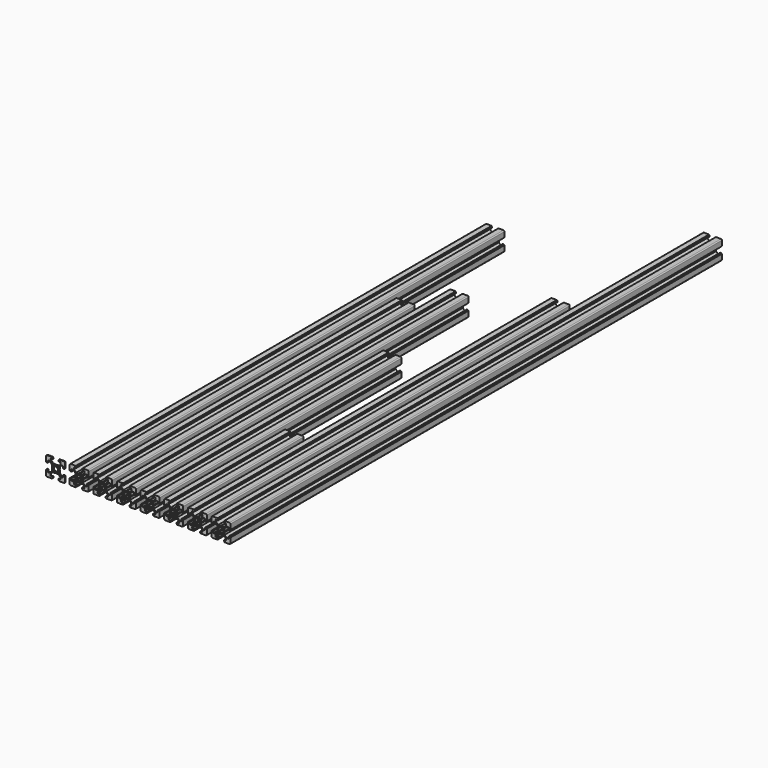
from build123d import *

# Parameters (mm, degrees)
F1_DEPTH  = 1
F3_DEPTH  = 549
F5_DEPTH  = 399
F9_DEPTH  = 439
F10_DEPTH = 319
F11_DEPTH = 158
F14_DEPTH = 479
F15_DEPTH = 649


with BuildPart() as f1:
    # F0 (on Front) → F1 (new body)
    with BuildSketch(Plane.XZ):
        with BuildLine():
            ThreePointArc((3.9878679656, -3.1393400344), (3.9228361402, -3.0420130297), (3.9, -2.927208))
            Line((3.9, -2.927208), (3.9, -0.5))
            Line((3.9, -0.5), (3.612132, -0.212132))
            ThreePointArc((3.6121319656, -0.2121320344), (3.524264, 0), (3.6121319656, 0.2121320344))
            Line((3.612132, 0.212132), (3.9, 0.5))
            Line((3.9, 0.5), (3.9, 2.927208))
            ThreePointArc((3.9, 2.927208), (3.9228361402, 3.0420130297), (3.9878679656, 3.1393400344))
            Line((3.987868, 3.13934), (6.26066, 5.412132))
            ThreePointArc((6.2606599656, 5.4121320344), (6.3579869703, 5.4771638598), (6.472792, 5.5))
            Line((6.472792, 5.5), (8.1, 5.5))
            Line((8.1, 5.5), (8.1, 3.1))
            Line((8.1, 3.1), (9.5, 3.1))
            Line((9.5, 3.1), (9.5, 3.6))
            Line((9.5, 3.6), (10, 3.6))
            Line((10, 3.6), (10, 9))
            ThreePointArc((10, 9), (9.7071067812, 9.7071067812), (9, 10))
            Line((9, 10), (3.6, 10))
            Line((3.6, 10), (3.6, 9.5))
            Line((3.6, 9.5), (3.1, 9.5))
            Line((3.1, 9.5), (3.1, 8.1))
            Line((3.1, 8.1), (5.5, 8.1))
            Line((5.5, 8.1), (5.5, 6.472792))
            ThreePointArc((5.5, 6.472792), (5.4771638598, 6.3579869703), (5.4121320344, 6.2606599656))
            Line((5.412132, 6.26066), (3.13934, 3.987868))
            ThreePointArc((3.1393400344, 3.9878679656), (3.0420130297, 3.9228361402), (2.927208, 3.9))
            Line((2.927208, 3.9), (0.5, 3.9))
            Line((0.5, 3.9), (0.212132, 3.612132))
            ThreePointArc((0.2121320344, 3.6121319656), (0, 3.524264), (-0.2121320344, 3.6121319656))
            Line((-0.212132, 3.612132), (-0.5, 3.9))
            Line((-0.5, 3.9), (-2.927208, 3.9))
            ThreePointArc((-2.927208, 3.9), (-3.0420130297, 3.9228361402), (-3.1393400344, 3.9878679656))
            Line((-3.13934, 3.987868), (-5.412132, 6.26066))
            ThreePointArc((-5.4121320344, 6.2606599656), (-5.4771638598, 6.3579869703), (-5.5, 6.472792))
            Line((-5.5, 6.472792), (-5.5, 8.1))
            Line((-5.5, 8.1), (-3.1, 8.1))
            Line((-3.1, 8.1), (-3.1, 9.5))
            Line((-3.1, 9.5), (-3.6, 9.5))
            Line((-3.6, 9.5), (-3.6, 10))
            Line((-3.6, 10), (-9, 10))
            ThreePointArc((-9, 10), (-9.7071067812, 9.7071067812), (-10, 9))
            Line((-10, 9), (-10, 3.6))
            Line((-10, 3.6), (-9.5, 3.6))
            Line((-9.5, 3.6), (-9.5, 3.1))
            Line((-9.5, 3.1), (-8.1, 3.1))
            Line((-8.1, 3.1), (-8.1, 5.5))
            Line((-8.1, 5.5), (-6.472792, 5.5))
            ThreePointArc((-6.472792, 5.5), (-6.3579869703, 5.4771638598), (-6.2606599656, 5.4121320344))
            Line((-6.26066, 5.412132), (-3.987868, 3.13934))
            ThreePointArc((-3.9878679656, 3.1393400344), (-3.9228361402, 3.0420130297), (-3.9, 2.927208))
            Line((-3.9, 2.927208), (-3.9, 0.5))
            Line((-3.9, 0.5), (-3.612132, 0.212132))
            ThreePointArc((-3.6121319656, 0.2121320344), (-3.524264, 0), (-3.6121319656, -0.2121320344))
            Line((-3.612132, -0.212132), (-3.9, -0.5))
            Line((-3.9, -0.5), (-3.9, -2.927208))
            ThreePointArc((-3.9, -2.927208), (-3.9228361402, -3.0420130297), (-3.9878679656, -3.1393400344))
            Line((-3.987868, -3.13934), (-6.26066, -5.412132))
            ThreePointArc((-6.2606599656, -5.4121320344), (-6.3579869703, -5.4771638598), (-6.472792, -5.5))
            Line((-6.472792, -5.5), (-8.1, -5.5))
            Line((-8.1, -5.5), (-8.1, -3.1))
            Line((-8.1, -3.1), (-9.5, -3.1))
            Line((-9.5, -3.1), (-9.5, -3.6))
            Line((-9.5, -3.6), (-10, -3.6))
            Line((-10, -3.6), (-10, -9))
            ThreePointArc((-10, -9), (-9.7071067812, -9.7071067812), (-9, -10))
            Line((-9, -10), (-3.6, -10))
            Line((-3.6, -10), (-3.6, -9.5))
            Line((-3.6, -9.5), (-3.1, -9.5))
            Line((-3.1, -9.5), (-3.1, -8.1))
            Line((-3.1, -8.1), (-5.5, -8.1))
            Line((-5.5, -8.1), (-5.5, -6.472792))
            ThreePointArc((-5.5, -6.472792), (-5.4771638598, -6.3579869703), (-5.4121320344, -6.2606599656))
            Line((-5.412132, -6.26066), (-3.13934, -3.987868))
            ThreePointArc((-3.1393400344, -3.9878679656), (-3.0420130297, -3.9228361402), (-2.927208, -3.9))
            Line((-2.927208, -3.9), (-0.5, -3.9))
            Line((-0.5, -3.9), (-0.212132, -3.612132))
            ThreePointArc((-0.2121320344, -3.6121319656), (0, -3.524264), (0.2121320344, -3.6121319656))
            Line((0.212132, -3.612132), (0.5, -3.9))
            Line((0.5, -3.9), (2.927208, -3.9))
            ThreePointArc((2.927208, -3.9), (3.0420130297, -3.9228361402), (3.1393400344, -3.9878679656))
            Line((3.13934, -3.987868), (5.412132, -6.26066))
            ThreePointArc((5.4121320344, -6.2606599656), (5.4771638598, -6.3579869703), (5.5, -6.472792))
            Line((5.5, -6.472792), (5.5, -8.1))
            Line((5.5, -8.1), (3.1, -8.1))
            Line((3.1, -8.1), (3.1, -9.5))
            Line((3.1, -9.5), (3.6, -9.5))
            Line((3.6, -9.5), (3.6, -10))
            Line((3.6, -10), (9, -10))
            ThreePointArc((9, -10), (9.7071067812, -9.7071067812), (10, -9))
            Line((10, -9), (10, -3.6))
            Line((10, -3.6), (9.5, -3.6))
            Line((9.5, -3.6), (9.5, -3.1))
            Line((9.5, -3.1), (8.1, -3.1))
            Line((8.1, -3.1), (8.1, -5.5))
            Line((8.1, -5.5), (6.472792, -5.5))
            ThreePointArc((6.472792, -5.5), (6.3579869703, -5.4771638598), (6.2606599656, -5.4121320344))
            Line((6.26066, -5.412132), (3.987868, -3.13934))
        make_face()
        with BuildLine():
            ThreePointArc((-2.3334520344, 2.6162950344), (-2.12132, 2.704163), (-1.9091879656, 2.6162950344))
            Line((-1.909188, 2.616295), (-1.543813, 2.25092))
            ThreePointArc((-1.5438130344, 2.2509199656), (-1.3749918279, 2.1661948421), (-1.1890007914, 2.1991536141))
            ThreePointArc((-1.1890008389, 2.199153702), (0, 2.5), (1.1890008389, 2.199153702))
            ThreePointArc((1.1890007914, 2.1991536141), (1.3749918279, 2.1661948421), (1.5438130344, 2.2509199656))
            Line((1.543813, 2.25092), (1.909188, 2.616295))
            ThreePointArc((1.9091879656, 2.6162950344), (2.12132, 2.704163), (2.3334520344, 2.6162950344))
            Line((2.333452, 2.616295), (2.616295, 2.333452))
            ThreePointArc((2.6162950344, 2.3334520344), (2.704163, 2.12132), (2.6162950344, 1.9091879656))
            Line((2.616295, 1.909188), (2.25092, 1.543813))
            ThreePointArc((2.2509199656, 1.5438130344), (2.1661948421, 1.3749918279), (2.1991536141, 1.1890007914))
            ThreePointArc((2.199153702, 1.1890008389), (2.5, 0), (2.199153702, -1.1890008389))
            ThreePointArc((2.1991536141, -1.1890007914), (2.1661948421, -1.3749918279), (2.2509199656, -1.5438130344))
            Line((2.25092, -1.543813), (2.616295, -1.909188))
            ThreePointArc((2.6162950344, -1.9091879656), (2.704163, -2.12132), (2.6162950344, -2.3334520344))
            Line((2.616295, -2.333452), (2.333452, -2.616295))
            ThreePointArc((2.3334520344, -2.6162950344), (2.12132, -2.704163), (1.9091879656, -2.6162950344))
            Line((1.909188, -2.616295), (1.543813, -2.25092))
            ThreePointArc((1.5438130344, -2.2509199656), (1.3749918279, -2.1661948421), (1.1890007914, -2.1991536141))
            ThreePointArc((1.1890008389, -2.199153702), (0, -2.5), (-1.1890008389, -2.199153702))
            ThreePointArc((-1.1890007914, -2.1991536141), (-1.3749918279, -2.1661948421), (-1.5438130344, -2.2509199656))
            Line((-1.543813, -2.25092), (-1.909188, -2.616295))
            ThreePointArc((-1.9091879656, -2.6162950344), (-2.12132, -2.704163), (-2.3334520344, -2.6162950344))
            Line((-2.333452, -2.616295), (-2.616295, -2.333452))
            ThreePointArc((-2.6162950344, -2.3334520344), (-2.704163, -2.12132), (-2.6162950344, -1.9091879656))
            Line((-2.616295, -1.909188), (-2.25092, -1.543813))
            ThreePointArc((-2.2509199656, -1.5438130344), (-2.1661948421, -1.3749918279), (-2.1991536141, -1.1890007914))
            ThreePointArc((-2.199153702, -1.1890008389), (-2.5, 0), (-2.199153702, 1.1890008389))
            ThreePointArc((-2.1991536141, 1.1890007914), (-2.1661948421, 1.3749918279), (-2.2509199656, 1.5438130344))
            Line((-2.25092, 1.543813), (-2.616295, 1.909188))
            ThreePointArc((-2.6162950344, 1.9091879656), (-2.704163, 2.12132), (-2.6162950344, 2.3334520344))
            Line((-2.616295, 2.333452), (-2.333452, 2.616295))
        make_face(mode=Mode.SUBTRACT)
    extrude(amount=F1_DEPTH)


with BuildPart() as f2_1:
    # F2: copy of F1
    add(f1.part.moved(Location((25, 0, 0))))

    # F3 (add): a face of the model
    f3_faces = [f2_1.faces().sort_by_distance(p)[0] for p in [
        (29.924264, 0, -4.475736),
    ]]
    extrude(f3_faces, amount=F3_DEPTH)


with BuildPart() as f4_1:
    # F4: copy of F1
    add(f1.part.moved(Location((50, 0, 0))))

    # F5 (add): a face of the model
    f5_faces = [f4_1.faces().sort_by_distance(p)[0] for p in [
        (54.924264, 0, -4.475736),
    ]]
    extrude(f5_faces, amount=F5_DEPTH)


with BuildPart() as f6_1:
    # F6: copy of F1
    add(f1.part.moved(Location((75, 0, 0))))

    # F9 (add): a face of the model
    f9_faces = [f6_1.faces().sort_by_distance(p)[0] for p in [
        (79.924264, 0, -4.475736),
    ]]
    extrude(f9_faces, amount=F9_DEPTH)


with BuildPart() as f7_1:
    # F7: copy of F1
    add(f1.part.moved(Location((100, 0, 0))))

    # F10 (add): a face of the model
    f10_faces = [f7_1.faces().sort_by_distance(p)[0] for p in [
        (104.924264, 0, -4.475736),
    ]]
    extrude(f10_faces, amount=F10_DEPTH)


with BuildPart() as f8_1:
    # F8: copy of F1
    add(f1.part.moved(Location((125, 0, 0))))

    # F11 (add): a face of the model
    f11_faces = [f8_1.faces().sort_by_distance(p)[0] for p in [
        (129.924264, 0, -4.475736),
    ]]
    extrude(f11_faces, amount=F11_DEPTH)


with BuildPart() as f12_1:
    # F12: copy of F1
    add(f1.part.moved(Location((150, 0, 0))))

    # F14 (add): a face of the model
    f14_faces = [f12_1.faces().sort_by_distance(p)[0] for p in [
        (154.924264, 0, -4.475736),
    ]]
    extrude(f14_faces, amount=F14_DEPTH)


with BuildPart() as f13_1:
    # F13: copy of F1
    add(f1.part.moved(Location((175, 0, 0))))

    # F15 (add): a face of the model
    f15_faces = [f13_1.faces().sort_by_distance(p)[0] for p in [
        (179.924264, 0, -4.475736),
    ]]
    extrude(f15_faces, amount=F15_DEPTH)


solid = Compound([f1.part, f2_1.part, f4_1.part, f6_1.part, f7_1.part, f8_1.part, f12_1.part, f13_1.part])
